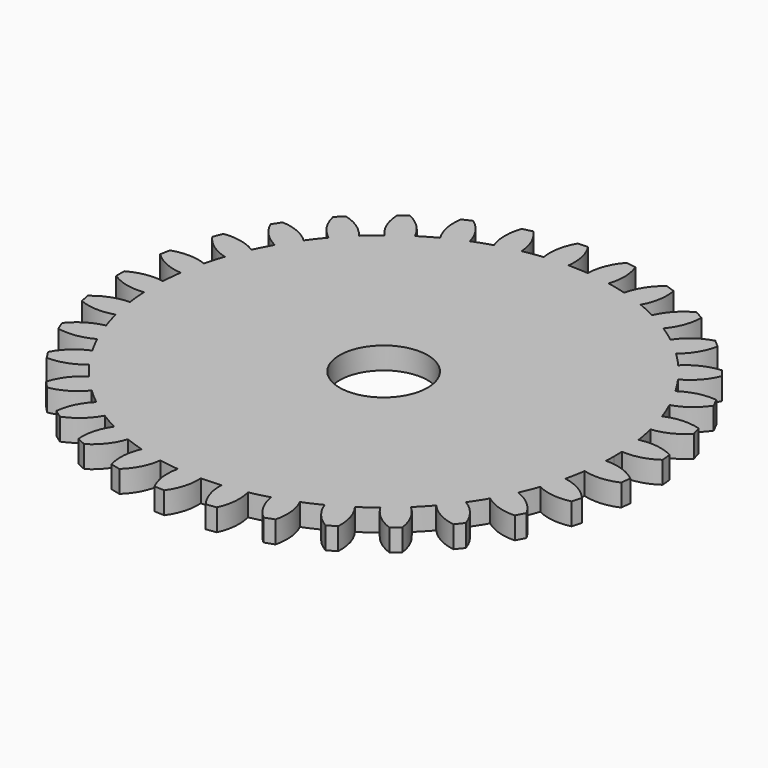
from build123d import *

# Parameters (mm, degrees)
F1_DEPTH = 6.35
F2_R     = 12.7
F3_DEPTH = 12.7


with BuildPart() as f1:
    # F0 (on Top) → F1 (new body)
    with BuildSketch(Plane.XY):
        with BuildLine():
            ThreePointArc((66.3633601722, -2.7665262794), (66.4065884796, -1.3835633347), (66.421, 0))
            ThreePointArc((66.421, 0), (66.4043743425, 1.4860380806), (66.3545056932, 2.9713322291))
            ThreePointArc((66.3545056932, 2.9713322291), (66.1104187266, 6.4157444457), (65.6876563408, 9.8428169471))
            ThreePointArc((65.6876563408, 9.8428169471), (65.20121035, 12.6708882834), (64.593065011, 15.4753091562))
            ThreePointArc((64.593065011, 15.4753091562), (63.7015297159, 18.8112825947), (62.6378294617, 22.0964151239))
            ThreePointArc((62.6378294617, 22.0964151239), (61.6249581642, 24.7813190178), (60.4970626638, 27.4199680899))
            ThreePointArc((60.4970626638, 27.4199680899), (58.9903014485, 30.5269319784), (57.3241082246, 33.5513912864))
            ThreePointArc((57.3241082246, 33.5513912864), (55.821419428, 35.9960883158), (54.2145388484, 38.3735979347))
            ThreePointArc((54.2145388484, 38.3735979347), (52.147009989, 41.1392585033), (49.9385443597, 43.7937327506))
            ThreePointArc((49.9385443597, 43.7937327506), (48.0003491524, 45.9098651952), (45.9725603444, 47.9403059688))
            ThreePointArc((45.9725603444, 47.9403059688), (43.4189897209, 50.2647050386), (40.7480713881, 52.4532546097))
            ThreePointArc((40.7480713881, 52.4532546097), (38.4444211948, 54.1643399295), (36.0690137292, 55.7743264379))
            ThreePointArc((36.0690137292, 55.7743264379), (33.1216940371, 57.5734541704), (30.0848569485, 59.2169791816))
            ThreePointArc((30.0848569485, 59.2169791816), (27.4990116892, 60.4611742949), (24.8618389809, 61.592517431))
            ThreePointArc((24.8618389809, 61.592517431), (21.6272940331, 62.8013486623), (18.3342973934, 63.8404478375))
            ThreePointArc((18.3342973934, 63.8404478375), (15.5597162532, 64.5727842912), (12.7560925949, 65.1845943664))
            Line((12.7560925949, 65.1845943664), (5.9210885609, 66.1565563739))
            Line((5.9210885609, 66.1565563739), (0.1893077869, 66.4207302245))
            ThreePointArc((0.1893077869, 66.4207302245), (-3.2628172044, 66.3408114579), (-6.7061238393, 66.0815945937))
            ThreePointArc((-6.7061238393, 66.0815945937), (-9.5541379622, 65.7302646336), (-12.3843190977, 65.2562478349))
            ThreePointArc((-12.3843190977, 65.2562478349), (-15.7589349672, 64.5244543541), (-19.0909594514, 63.618271811))
            ThreePointArc((-19.0909594514, 63.618271811), (-21.8210166168, 62.7343006242), (-24.5103444231, 61.7332346249))
            ThreePointArc((-24.5103444231, 61.7332346249), (-27.6854837608, 60.3760153532), (-30.7857980479, 58.8556189293))
            ThreePointArc((-30.7857980479, 58.8556189293), (-33.2992268767, 57.4709555377), (-35.75050204, 55.9790214713))
            ThreePointArc((-35.75050204, 55.9790214713), (-38.6114070374, 54.0454298492), (-41.3679576914, 51.9657706326))
            ThreePointArc((-41.3679576914, 51.9657706326), (-43.5739163169, 50.1304603789), (-45.6985433662, 48.2015806298))
            ThreePointArc((-45.6985433662, 48.2015806298), (-48.1418134627, 45.7615016965), (-50.4549715607, 43.1977439898))
            ThreePointArc((-50.4549715607, 43.1977439898), (-52.2737308908, 40.9781197684), (-53.9949202687, 38.6820090763))
            ThreePointArc((-53.9949202687, 38.6820090763), (-55.9322493172, 35.8236336421), (-57.7184112987, 32.8684383286))
            ThreePointArc((-57.7184112987, 32.8684383286), (-59.0842366324, 30.344723142), (-60.3397800703, 27.7643689298))
            ThreePointArc((-60.3397800703, 27.7643689298), (-61.7011479513, 24.5910061302), (-62.8957572684, 21.3511816683))
            ThreePointArc((-62.8957572684, 21.3511816683), (-63.7592841196, 18.6145891589), (-64.5038030064, 15.8432521508))
            ThreePointArc((-64.5038030064, 15.8432521508), (-65.2400063376, 12.4695955856), (-65.7998866972, 9.0622376725))
            ThreePointArc((-65.7998866972, 9.0622376725), (-66.1299049556, 6.2116754237), (-66.3364904388, 3.3495189599))
            ThreePointArc((-66.3364904388, 3.3495189599), (-66.4209209137, -0.1024986327), (-66.3258367808, -3.5542392042))
            ThreePointArc((-66.3258367808, -3.5542392042), (-66.1104187266, -6.4157444457), (-65.7716042687, -9.2652745733))
            ThreePointArc((-65.7716042687, -9.2652745733), (-65.20121035, -12.6708882834), (-64.4545983129, -16.0422566155))
            ThreePointArc((-64.4545983129, -16.0422566155), (-63.7015297159, -18.8112825947), (-62.8295609541, -21.5451969429))
            ThreePointArc((-62.8295609541, -21.5451969429), (-61.6249581642, -24.7813190178), (-60.2538027272, -27.9504650751))
            ThreePointArc((-60.2538027272, -27.9504650751), (-58.9903014485, -30.5269319784), (-57.6166936058, -33.0464197596))
            ThreePointArc((-57.6166936058, -33.0464197596), (-55.821419428, -35.9960883158), (-53.8752777211, -38.8484709027))
            ThreePointArc((-53.8752777211, -38.8484709027), (-52.147009989, -41.1392585033), (-50.3214088318, -43.3532588646))
            ThreePointArc((-50.3214088318, -43.3532588646), (-48.0003491524, -45.9098651952), (-45.5495598075, -48.3423917731))
            ThreePointArc((-45.5495598075, -48.3423917731), (-43.4189897209, -50.2647050386), (-41.2073772314, -52.0931982384))
            ThreePointArc((-41.2073772314, -52.0931982384), (-38.4444211948, -54.1643399295), (-35.5775621243, -56.0890926499))
            ThreePointArc((-35.5775621243, -56.0890926499), (-33.1216940371, -57.5734541704), (-30.6040036531, -58.9503537004))
            ThreePointArc((-30.6040036531, -58.9503537004), (-27.4990116892, -60.4611742949), (-24.3196986494, -61.8085875797))
            ThreePointArc((-24.3196986494, -61.8085875797), (-21.6272940331, -62.8013486623), (-18.8945216449, -63.6768897859))
            ThreePointArc((-18.8945216449, -63.6768897859), (-15.5597162532, -64.5727842912), (-12.182857901, -65.2941591137))
            ThreePointArc((-12.182857901, -65.2941591137), (-9.3512272734, -65.7594387862), (-6.5021423951, -66.1019771661))
            ThreePointArc((-6.5021423951, -66.1019771661), (-3.0580521313, -66.3505656205), (0.3943030741, -66.419829615))
            ThreePointArc((0.3943030741, -66.419829615), (3.2628172044, -66.3408114579), (6.1252412219, -66.1379668645))
            ThreePointArc((6.1252412219, -66.1379668645), (9.5541379622, -65.7302646336), (12.9572129087, -65.1449144188))
            ThreePointArc((12.9572129087, -65.1449144188), (15.7589349672, -64.5244543541), (18.531242662, -63.7835581196))
            ThreePointArc((18.531242662, -63.7835581196), (21.8210166168, -62.7343006242), (25.0518153091, -61.5154922822))
            ThreePointArc((25.0518153091, -61.5154922822), (27.6854837608, -60.3760153532), (30.2674767096, -59.1238453979))
            ThreePointArc((30.2674767096, -59.1238453979), (33.2992268767, -57.4709555377), (36.2409798324, -55.6627399774))
            ThreePointArc((36.2409798324, -55.6627399774), (38.6114070374, -54.0454298492), (40.9097652879, -52.3272428577))
            ThreePointArc((40.9097652879, -52.3272428577), (43.5739163169, -50.1304603789), (46.1203009196, -47.7981912219))
            ThreePointArc((46.1203009196, -47.7981912219), (48.1418134627, -45.7615016965), (50.0734683592, -43.6393974234))
            ThreePointArc((50.0734683592, -43.6393974234), (52.2737308908, -40.9781197684), (54.3327141662, -38.2060912988))
            ThreePointArc((54.3327141662, -38.2060912988), (55.9322493172, -35.8236336421), (57.4273858189, -33.3743104649))
            ThreePointArc((57.4273858189, -33.3743104649), (59.0842366324, -30.344723142), (60.5814015604, -27.2331236911))
            ThreePointArc((60.5814015604, -27.2331236911), (61.7011479513, -24.5910061302), (62.7057279295, -21.9029889702))
            ThreePointArc((62.7057279295, -21.9029889702), (63.7592841196, -18.6145891589), (64.6405192589, -15.275880038))
            ThreePointArc((64.6405192589, -15.275880038), (65.2400063376, -12.4695955856), (65.7177216546, -9.6400363865))
            ThreePointArc((65.7177216546, -9.6400363865), (66.1299049556, -6.2116754237), (66.3633601722, -2.7665262794))
        make_face()
        with BuildLine():
            ThreePointArc((65.6876563408, 9.8428169471), (66.1104187266, 6.4157444457), (66.3545056932, 2.9713322291))
            ThreePointArc((66.3545056932, 2.9713322291), (71.4048736459, 3.4258642381), (75.9954301056, 5.5798389818))
            Line((75.9954301056, 5.5798389818), (75.7294448208, 8.4552461311))
            ThreePointArc((75.7294448208, 8.4552461311), (70.8327993079, 10.0482140687), (65.6876563408, 9.8428169471))
        make_face()
        with BuildLine():
            ThreePointArc((75.961080949, -6.0294428485), (71.454395364, -3.5385656603), (66.3633601722, -2.7665262794))
            ThreePointArc((66.3633601722, -2.7665262794), (66.1299049556, -6.2116754237), (65.7177216546, -9.6400363865))
            ThreePointArc((65.7177216546, -9.6400363865), (70.7628436274, -10.1495067826), (75.6780851522, -8.9032256909))
            Line((75.6780851522, -8.9032256909), (75.961080949, -6.0294428485))
        make_face()
        with BuildLine():
            ThreePointArc((62.6378294617, 22.0964151239), (63.7015297159, 18.8112825947), (64.593065011, 15.4753091562))
            ThreePointArc((64.593065011, 15.4753091562), (69.4661454873, 16.8774155992), (73.5661022109, 19.8612337355))
            Line((73.5661022109, 19.8612337355), (72.7607492456, 22.6343404856))
            ThreePointArc((72.7607492456, 22.6343404856), (67.6511213318, 23.2718251608), (62.6378294617, 22.0964151239))
        make_face()
        with BuildLine():
            ThreePointArc((73.447285697, -20.296212054), (69.493443399, -16.9974524066), (64.6405192589, -15.275880038))
            ThreePointArc((64.6405192589, -15.275880038), (63.7592841196, -18.6145891589), (62.7057279295, -21.9029889702))
            ThreePointArc((62.7057279295, -21.9029889702), (67.5632600695, -23.3580481838), (72.625537024, -23.0645045899))
            Line((72.625537024, -23.0645045899), (73.447285697, -20.296212054))
        make_face()
        with BuildLine():
            ThreePointArc((57.3241082246, 33.5513912864), (58.9903014485, 30.5269319784), (60.4970626638, 27.4199680899))
            ThreePointArc((60.4970626638, 27.4199680899), (65.0167298385, 29.7189731869), (68.4779037077, 33.4247917541))
            Line((68.4779037077, 33.4247917541), (67.1622906164, 35.9953708017))
            ThreePointArc((67.1622906164, 35.9953708017), (62.0243555674, 35.6543318575), (57.3241082246, 33.5513912864))
        make_face()
        with BuildLine():
            ThreePointArc((68.2789141749, -33.8294232746), (65.0208173261, -29.8420069365), (60.5814015604, -27.2331236911))
            ThreePointArc((60.5814015604, -27.2331236911), (59.0842366324, -30.344723142), (57.4273858189, -33.3743104649))
            ThreePointArc((57.4273858189, -33.3743104649), (61.9217642582, -35.7223688649), (66.9481127638, -36.3921721991))
            Line((66.9481127638, -36.3921721991), (68.2789141749, -33.8294232746))
        make_face()
        with BuildLine():
            ThreePointArc((49.9385443597, 43.7937327506), (52.147009989, 41.1392585033), (54.2145388484, 38.3735979347))
            ThreePointArc((54.2145388484, 38.3735979347), (58.2174401738, 41.4864096516), (60.914735347, 45.7802907112))
            Line((60.914735347, 45.7802907112), (59.1364118147, 48.0554346321))
            ThreePointArc((59.1364118147, 48.0554346321), (54.15586799, 46.7481981044), (49.9385443597, 43.7937327506))
        make_face()
        with BuildLine():
            ThreePointArc((60.6427647956, -46.1399509964), (58.1981695051, -41.6079935832), (54.3327141662, -38.2060912988))
            ThreePointArc((54.3327141662, -38.2060912988), (52.2737308908, -40.9781197684), (50.0734683592, -43.6393974234))
            ThreePointArc((50.0734683592, -43.6393974234), (54.0422545511, -46.7955900616), (58.8510092766, -48.4045318862))
            Line((58.8510092766, -48.4045318862), (60.6427647956, -46.1399509964))
        make_face()
        with BuildLine():
            ThreePointArc((40.7480713881, 52.4532546097), (43.4189897209, 50.2647050386), (45.9725603444, 47.9403059688))
            ThreePointArc((45.9725603444, 47.9403059688), (49.3140205373, 51.7544191797), (51.1499497391, 56.4811706827))
            Line((51.1499497391, 56.4811706827), (48.9731890116, 58.3786498476))
            ThreePointArc((48.9731890116, 58.3786498476), (44.3300462417, 56.1524626706), (40.7480713881, 52.4532546097))
        make_face()
        with BuildLine():
            ThreePointArc((50.8148278933, -56.7828606727), (49.2720882042, -51.8701589332), (46.1203009196, -47.7981912219))
            ThreePointArc((46.1203009196, -47.7981912219), (43.5739163169, -50.1304603789), (40.9097652879, -52.3272428577))
            ThreePointArc((40.9097652879, -52.3272428577), (44.2095169587, -56.1774967086), (48.6268769795, -58.6674256741))
            Line((48.6268769795, -58.6674256741), (50.8148278933, -56.7828606727))
        make_face()
        with BuildLine():
            ThreePointArc((30.0848569485, 59.2169791816), (33.1216940371, 57.5734541704), (36.0690137292, 55.7743264379))
            ThreePointArc((36.0690137292, 55.7743264379), (38.628263712, 60.1518891538), (39.5364716777, 65.1406739854))
            Line((39.5364716777, 65.1406739854), (37.0399475592, 66.5919085536))
            ThreePointArc((37.0399475592, 66.5919085536), (32.9020211214, 63.527230932), (30.0848569485, 59.2169791816))
        make_face()
        with BuildLine():
            ThreePointArc((39.1503107143, -65.3734898179), (38.5651852585, -60.257601593), (36.2409798324, -55.6627399774))
            ThreePointArc((36.2409798324, -55.6627399774), (33.2992268767, -57.4709555377), (30.2674767096, -59.1238453979))
            ThreePointArc((30.2674767096, -59.1238453979), (32.7789322368, -63.5290022556), (36.6452426522, -66.8099258416))
            Line((36.6452426522, -66.8099258416), (39.1503107143, -65.3734898179))
        make_face()
        with BuildLine():
            ThreePointArc((18.3342973934, 63.8404478375), (21.6272940331, 62.8013486623), (24.8618389809, 61.592517431))
            ThreePointArc((24.8618389809, 61.592517431), (26.5463807913, 66.3753131296), (26.4940425187, 71.445823608))
            Line((26.4940425187, 71.445823608), (23.7679858954, 72.3983621809))
            ThreePointArc((23.7679858954, 72.3983621809), (20.2848312324, 68.605959549), (18.3342973934, 63.8404478375))
        make_face()
        with BuildLine():
            ThreePointArc((26.0707993009, -71.6013507122), (26.4644360369, -66.4671775315), (25.0518153091, -61.5154922822))
            ThreePointArc((25.0518153091, -61.5154922822), (21.8210166168, -62.7343006242), (18.531242662, -63.7835581196))
            ThreePointArc((18.531242662, -63.7835581196), (20.1636314991, -68.5844041378), (23.3391537772, -72.5377412177))
            Line((23.3391537772, -72.5377412177), (26.0707993009, -71.6013507122))
        make_face()
        with BuildLine():
            Line((5.9210885609, 66.1565563739), (12.7560925949, 65.1845943664))
            ThreePointArc((12.7560925949, 65.1845943664), (9.3512272734, 65.7594387862), (5.9210885609, 66.1565563739))
        make_face()
        with BuildLine():
            ThreePointArc((5.9210885609, 66.1565563739), (9.3512272734, 65.7594387862), (12.7560925949, 65.1845943664))
            ThreePointArc((12.7560925949, 65.1845943664), (13.5050425028, 70.1997603498), (12.4940496334, 75.168735015))
            Line((12.4940496334, 75.168735015), (9.6369872945, 75.5881503669))
            ThreePointArc((9.6369872945, 75.5881503669), (6.934494691, 71.2050900367), (5.9210885609, 66.1565563739))
        make_face()
        with BuildLine():
            ThreePointArc((12.0490212739, -75.2413522363), (13.4071931446, -70.2744564955), (12.9572129087, -65.1449144188))
            ThreePointArc((12.9572129087, -65.1449144188), (9.5541379622, -65.7302646336), (6.1252412219, -66.1379668645))
            ThreePointArc((6.1252412219, -66.1379668645), (6.8195645832, -71.1609869596), (9.1895270751, -75.6438536309))
            Line((9.1895270751, -75.6438536309), (12.0490212739, -75.2413522363))
        make_face()
        with BuildLine():
            Line((0.1893077869, 66.4207302245), (5.9210885609, 66.1565563739))
            ThreePointArc((5.9210885609, 66.1565563739), (3.0580521313, 66.3505656205), (0.1893077869, 66.4207302245))
        make_face()
        with BuildLine():
            ThreePointArc((-6.7061238393, 66.0815945937), (-3.2628172044, 66.3408114579), (0.1893077869, 66.4207302245))
            ThreePointArc((0.1893077869, 66.4207302245), (-0.0244032087, 71.4870053272), (-1.9575107585, 76.1748524884))
            Line((-1.9575107585, 76.1748524884), (-4.8423171362, 76.0459858556))
            ThreePointArc((-4.8423171362, 76.0459858556), (-6.6664725561, 71.2306830475), (-6.7061238393, 66.0815945937))
        make_face()
        with BuildLine():
            ThreePointArc((-2.4082397753, -76.161935251), (-0.1346206401, -71.5418335035), (0.3943030741, -66.419829615))
            ThreePointArc((0.3943030741, -66.419829615), (-3.0580521313, -66.3505656205), (-6.5021423951, -66.1019771661))
            ThreePointArc((-6.5021423951, -66.1019771661), (-6.770979165, -71.1656263046), (-5.2922330786, -76.0160000858))
            Line((-5.2922330786, -76.0160000858), (-2.4082397753, -76.161935251))
        make_face()
        with BuildLine():
            ThreePointArc((-19.0909594514, 63.618271811), (-15.7589349672, 64.5244543541), (-12.3843190977, 65.2562478349))
            ThreePointArc((-12.3843190977, 65.2562478349), (-13.5529669247, 70.1905236746), (-16.3383216114, 74.4278123212))
            Line((-16.3383216114, 74.4278123212), (-19.1466076091, 73.7553212796))
            ThreePointArc((-19.1466076091, 73.7553212796), (-20.0264961157, 68.6818135833), (-19.0909594514, 63.618271811))
        make_face()
        with BuildLine():
            ThreePointArc((-16.7784607644, -74.3298274879), (-13.6715688842, -70.2235022482), (-12.182857901, -65.2941591137))
            ThreePointArc((-12.182857901, -65.2941591137), (-15.5597162532, -64.5727842912), (-18.8945216449, -63.6768897859))
            ThreePointArc((-18.8945216449, -63.6768897859), (-20.1168020845, -68.5981544946), (-19.58271814, -73.6407302398))
            Line((-19.58271814, -73.6407302398), (-16.7784607644, -74.3298274879))
        make_face()
        with BuildLine():
            ThreePointArc((-30.7857980479, 58.8556189293), (-27.6854837608, 60.3760153532), (-24.5103444231, 61.7332346249))
            ThreePointArc((-24.5103444231, 61.7332346249), (-26.5916911041, 66.3571736167), (-30.1286229521, 69.990757097))
            Line((-30.1286229521, 69.990757097), (-32.758889797, 68.798947225))
            ThreePointArc((-32.758889797, 68.798947225), (-32.6627099272, 63.6506044274), (-30.7857980479, 58.8556189293))
        make_face()
        with BuildLine():
            ThreePointArc((-30.5422644656, -69.8112460948), (-26.7143910078, -66.3671106561), (-24.3196986494, -61.8085875797))
            ThreePointArc((-24.3196986494, -61.8085875797), (-27.4990116892, -60.4611742949), (-30.6040036531, -58.9503537004))
            ThreePointArc((-30.6040036531, -58.9503537004), (-32.7355513629, -63.5513666505), (-33.1654327456, -68.6038925339))
            Line((-33.1654327456, -68.6038925339), (-30.5422644656, -69.8112460948))
        make_face()
        with BuildLine():
            ThreePointArc((-41.3679576914, 51.9657706326), (-38.6114070374, 54.0454298492), (-35.75050204, 55.9790214713))
            ThreePointArc((-35.75050204, 55.9790214713), (-38.6693222831, 60.1255024124), (-42.8299973601, 63.0240535521))
            Line((-42.8299973601, 63.0240535521), (-45.1871803551, 61.3559999637))
            ThreePointArc((-45.1871803551, 61.3559999637), (-44.1184083001, 56.3188965874), (-41.3679576914, 51.9657706326))
        make_face()
        with BuildLine():
            ThreePointArc((-43.202191152, -62.7695043765), (-38.7916854367, -60.1120387671), (-35.5775621243, -56.0890926499))
            ThreePointArc((-35.5775621243, -56.0890926499), (-38.4444211948, -54.1643399295), (-41.2073772314, -52.0931982384))
            ThreePointArc((-41.2073772314, -52.0931982384), (-44.1711525233, -56.2076668341), (-45.5494622, -61.0875314061))
            Line((-45.5494622, -61.0875314061), (-43.202191152, -62.7695043765))
        make_face()
        with BuildLine():
            ThreePointArc((-50.4549715607, 43.1977439898), (-48.1418134627, 45.7615016965), (-45.6985433662, 48.2015806298))
            ThreePointArc((-45.6985433662, 48.2015806298), (-49.3493434028, 51.7207388954), (-53.9833840709, 53.7794965043))
            Line((-53.9833840709, 53.7794965043), (-55.9822884812, 51.6954870023))
            ThreePointArc((-55.9822884812, 51.6954870023), (-53.9795524476, 46.9516770874), (-50.4549715607, 43.1977439898))
        make_face()
        with BuildLine():
            ThreePointArc((-54.3006780879, -53.4591092256), (-49.4669472832, -51.6843611767), (-45.5495598075, -48.3423917731))
            ThreePointArc((-45.5495598075, -48.3423917731), (-48.0003491524, -45.9098651952), (-50.3214088318, -43.3532588646))
            ThreePointArc((-50.3214088318, -43.3532588646), (-54.0102931448, -46.8324754907), (-56.2872154126, -51.3633077313))
            Line((-56.2872154126, -51.3633077313), (-54.3006780879, -53.4591092256))
        make_face()
        with BuildLine():
            ThreePointArc((-57.7184112987, 32.8684383286), (-55.9322493172, 35.8236336421), (-53.9949202687, 38.6820090763))
            ThreePointArc((-53.9949202687, 38.6820090763), (-58.2457506735, 41.4466531177), (-63.1856706291, 42.5912083317))
            Line((-63.1856706291, 42.5912083317), (-64.7540508412, 40.1665644493))
            ThreePointArc((-64.7540508412, 40.1665644493), (-61.8897349273, 35.887501646), (-57.7184112987, 32.8684383286))
        make_face()
        with BuildLine():
            ThreePointArc((-63.4365970387, -42.216562581), (-58.35434477, -41.388676111), (-53.8752777211, -38.8484709027))
            ThreePointArc((-53.8752777211, -38.8484709027), (-55.821419428, -35.9960883158), (-57.6166936058, -33.0464197596))
            ThreePointArc((-57.6166936058, -33.0464197596), (-61.8973610495, -35.7646364623), (-64.9906020052, -39.7826802893))
            Line((-64.9906020052, -39.7826802893), (-63.4365970387, -42.216562581))
        make_face()
        with BuildLine():
            ThreePointArc((-62.8957572684, 21.3511816683), (-61.7011479513, 24.5910061302), (-60.3397800703, 27.7643689298))
            ThreePointArc((-60.3397800703, 27.7643689298), (-65.037004757, 29.6745773081), (-70.1042624221, 29.8635629197))
            Line((-70.1042624221, 29.8635629197), (-71.1854330887, 27.1859176042))
            ThreePointArc((-71.1854330887, 27.1859176042), (-67.5630611346, 23.5262583911), (-62.8957572684, 21.3511816683))
        make_face()
        with BuildLine():
            ThreePointArc((-70.27975209, -29.4481993705), (-65.1326641961, -29.5970964535), (-60.2538027272, -27.9504650751))
            ThreePointArc((-60.2538027272, -27.9504650751), (-61.6249581642, -24.7813190178), (-62.8295609541, -21.5451969429))
            ThreePointArc((-62.8295609541, -21.5451969429), (-67.5472970539, -23.4041702882), (-71.3450589101, -26.7642031288))
            Line((-71.3450589101, -26.7642031288), (-70.27975209, -29.4481993705))
        make_face()
        with BuildLine():
            ThreePointArc((-65.7998866972, 9.0622376725), (-65.2400063376, 12.4695955856), (-64.5038030064, 15.8432521508))
            ThreePointArc((-64.5038030064, 15.8432521508), (-69.4776520363, 16.8299849582), (-74.4891035162, 16.056570535))
            Line((-74.4891035162, 16.056570535), (-75.0439883125, 13.2227008646))
            ThreePointArc((-75.0439883125, 13.2227008646), (-70.7944822786, 10.314714861), (-65.7998866972, 9.0622376725))
        make_face()
        with BuildLine():
            ThreePointArc((-74.5828137887, -15.6155015082), (-69.5569194366, -16.7358006158), (-64.4545983129, -16.0422566155))
            ThreePointArc((-64.4545983129, -16.0422566155), (-65.20121035, -12.6708882834), (-65.7716042687, -9.2652745733))
            ThreePointArc((-65.7716042687, -9.2652745733), (-70.75589775, -10.197816421), (-75.1209194981, -12.7783979339))
            Line((-75.1209194981, -12.7783979339), (-74.5828137887, -15.6155015082))
        make_face()
        with BuildLine():
            ThreePointArc((-66.3258367808, -3.5542392042), (-66.4209209137, -0.1024986327), (-66.3364904388, 3.3495189599))
            ThreePointArc((-66.3364904388, 3.3495189599), (-71.4071959488, 3.3771131018), (-76.1817143299, 1.6692518562))
            Line((-76.1817143299, 1.6692518562), (-76.1902582735, -1.2184187356))
            ThreePointArc((-76.1902582735, -1.2184187356), (-71.4672063799, -3.269629339), (-66.3258367808, -3.5542392042))
        make_face()
    extrude(amount=F1_DEPTH)

    # F2 (on face) → F3 (cut, symmetric)
    with BuildSketch(Plane.XY.offset(6.35)):
        Circle(F2_R)
    extrude(amount=F3_DEPTH, both=True, mode=Mode.SUBTRACT)


solid = f1.part
